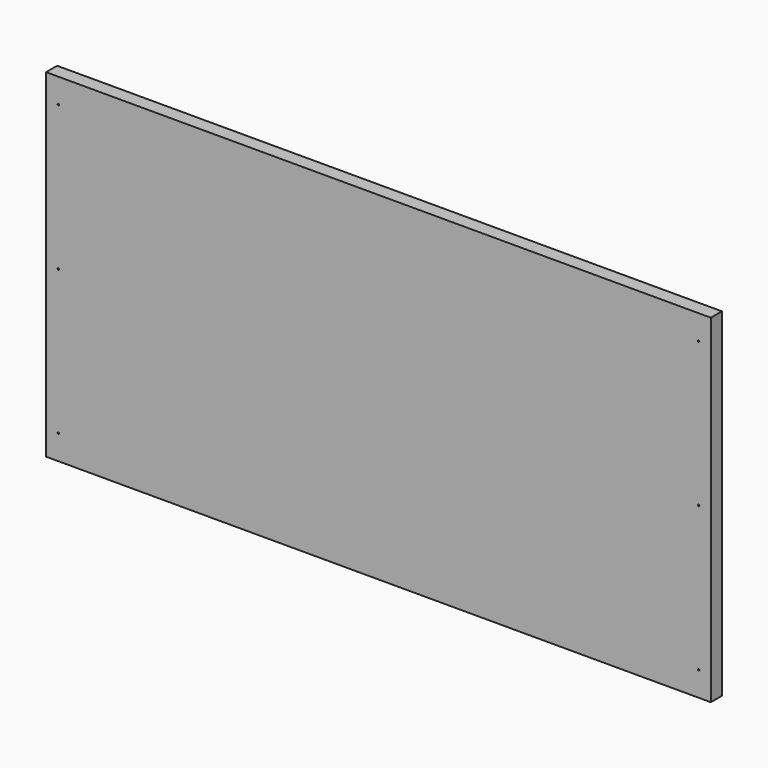
from build123d import *

# Parameters (mm, degrees)
F0_W     = 1371.6
F0_H     = 698.5
F1_DEPTH = 28.575
F3_D     = 3.175
F3_DEPTH = 31.75


with BuildPart() as f1:
    # F0 (on Front) → F1 (new body)
    with BuildSketch(Plane.XZ):
        Rectangle(F0_W, F0_H)
    extrude(amount=F1_DEPTH)

    # F3
    with Locations(Plane.XZ.offset(28.575)):
        with Locations((-660.4, 298.45), (-660.4, 0), (-660.4, -298.45), (660.4, -298.45), (660.4, 0), (660.4, 298.45)):
            Hole(F3_D / 2, depth=F3_DEPTH)


solid = f1.part
